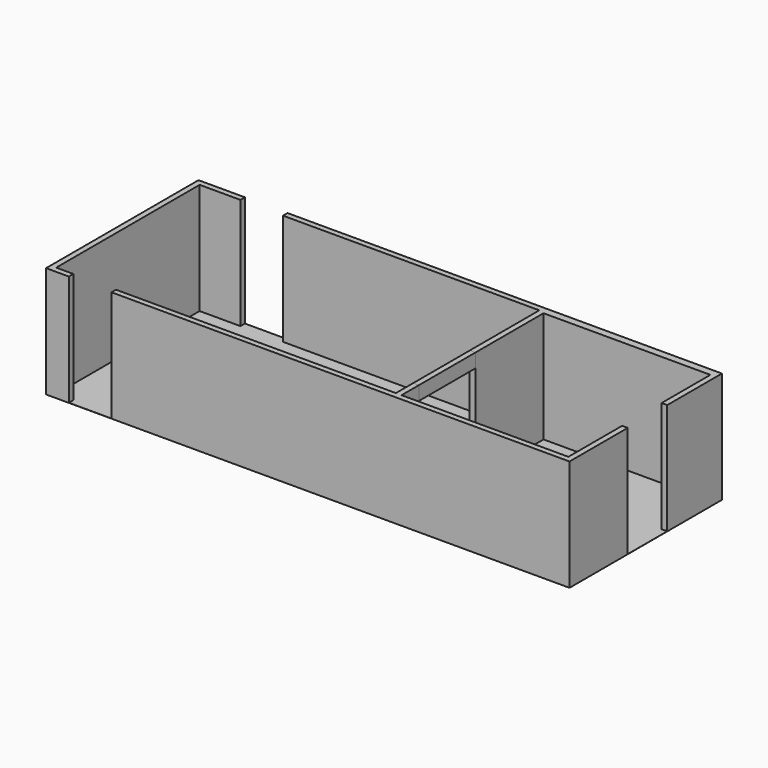
from build123d import *

# Parameters (mm, degrees)
F1_DEPTH = 2387.6
F2_W     = 11234.900356
F2_H     = 4089.0944
F3_DEPTH = 2.54
F4_W     = 120.65
F4_H     = 298.45
F5_DEPTH = 1517.65


with BuildPart() as f1:
    # F0 (on Top) → F1 (new body)
    with BuildSketch(Plane.XY):
        Polygon((1498.488612, -2605.572111), (1498.488612, 1242.527889), (2374.788612, 1242.527889), (2374.788612, 1363.177889), (1377.838612, 1363.177889), (1377.838612, -2726.222111), (1866.788612, -2726.222111), (1866.788612, -2605.572111), align=None)
        Polygon((12492.122546, -1164.122111), (12492.122546, -2605.572111), (8910.722546, -2605.572111), (8910.722546, -2142.022111), (8790.072546, -2142.022111), (8790.072546, -2605.572111), (2781.188612, -2605.572111), (2781.188612, -2726.222111), (12612.772546, -2726.222111), (12612.772546, -1164.122111), align=None)
        Polygon((3289.188612, 1242.527889), (8790.072546, 1242.527889), (8790.072546, -624.372111), (8910.722546, -624.372111), (8910.722546, 1204.427889), (12492.122546, 1204.427889), (12492.122546, -103.672111), (12612.772546, -103.672111), (12612.772546, 1363.177889), (3289.188612, 1363.177889), align=None)
    extrude(amount=F1_DEPTH)


with BuildPart() as f3:
    # F2 (on Top) → F3 (new body)
    with BuildSketch(Plane.XY):
        with Locations((6995.24647, -681.429267)):
            Rectangle(F2_W, F2_H)
    extrude(amount=F3_DEPTH)


with BuildPart() as f5:
    # F4 (on face) → F5 (new body, through all)
    with BuildSketch(Plane.XZ.offset(624.372111)):
        with Locations((8850.397546, 2238.375)):
            Rectangle(F4_W, F4_H)
    extrude(amount=F5_DEPTH)


solid = Compound([f1.part, f3.part, f5.part])
